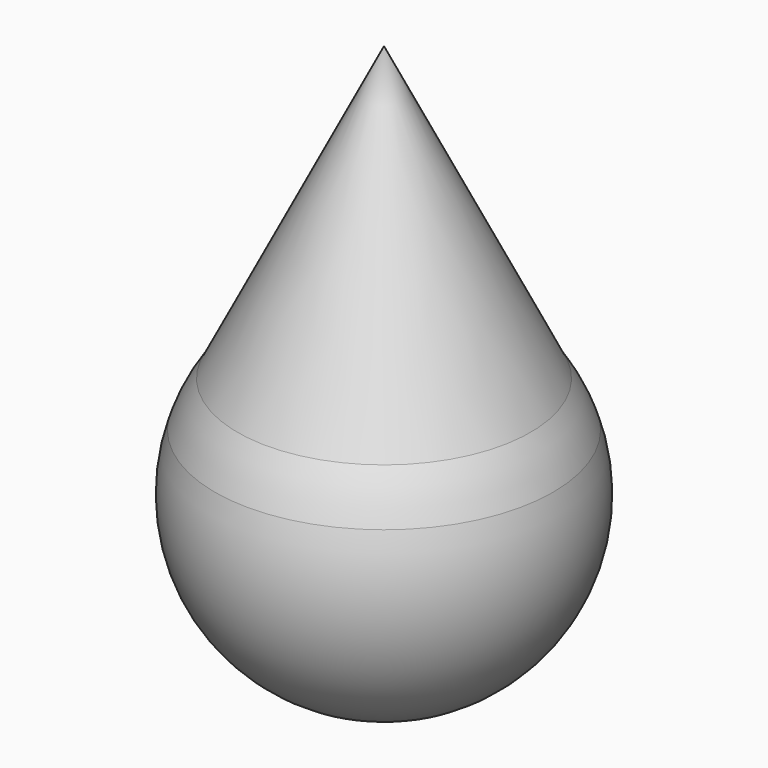
from build123d import *


with BuildPart() as f1:
    # F0 (on Front) → F1 (revolve)
    with BuildSketch(Plane.XZ):
        with BuildLine():
            Line((-38.1618067622, 0), (-33.0451779445, 10.2166838782))
            ThreePointArc((-33.0451779445, 10.2166838782), (-35.9680945439, 5.2909387678), (-38.1618067622, 0))
        make_face()
        with BuildLine():
            Line((-34.9758, 0), (-25.9590502891, 18.0073069752))
            ThreePointArc((-25.9590502891, 18.0073069752), (-29.7581617279, 14.3448890008), (-33.0451779445, 10.2166838782))
            Line((-33.0451779445, 10.2166838782), (-38.1618067622, 0))
            Line((-38.1618067622, 0), (-34.9758, 0))
        make_face()
        with BuildLine():
            Line((-25.9590502891, 18.0073069752), (0, 69.85))
            Line((0, 69.85), (0, 76.2))
            Line((0, 76.2), (-33.0451779445, 10.2166838782))
            ThreePointArc((-33.0451779445, 10.2166838782), (-29.7581617279, 14.3448890008), (-25.9590502891, 18.0073069752))
        make_face()
        with BuildLine():
            Line((0, -12.7222826704), (0, 0))
            Line((0, 0), (-34.9758, 0))
            Line((-34.9758, 0), (-38.1618067622, 0))
            ThreePointArc((-38.1618067622, 0), (-32.6339872408, -36.2425473047), (0, -52.9488904283))
            Line((0, -52.9488904283), (0, -15.2230868116))
            Line((0, -15.2230868116), (0, -12.7222826704))
        make_face()
    revolve(axis=Axis((0, 0, 38.1), (0, 0, 1)))


solid = f1.part
